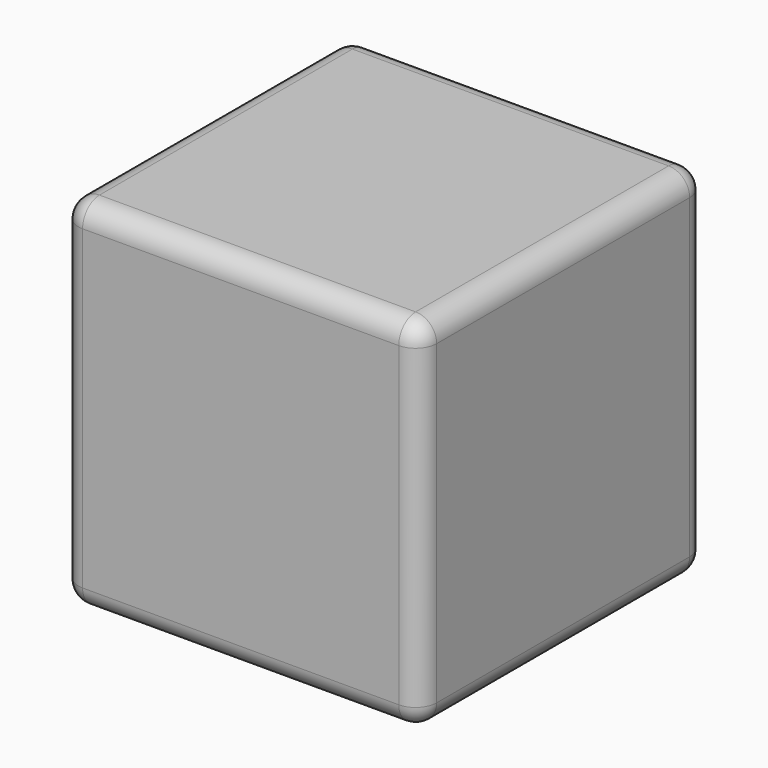
from build123d import *

# Parameters (mm, degrees)
F0_W     = 43.18
F0_H     = 43.18
F1_DEPTH = 86.36
F2_R     = 5.08


with BuildPart() as f1:
    # F0 (on Top) → F1 (new body)
    with BuildSketch(Plane.XY):
        with Locations((-21.59, 21.59)):
            Rectangle(F0_W, F0_H)
        with Locations((21.59, -21.59)):
            Rectangle(F0_W, F0_H)
        with Locations((21.59, 21.59)):
            Rectangle(F0_W, F0_H)
        with Locations((-21.59, -21.59)):
            Rectangle(F0_W, F0_H)
    extrude(amount=F1_DEPTH)

    # F2
    f2_edges = [f1.edges().sort_by_distance(p)[0] for p in [
        (-43.18, 0, 86.36),
        (0, 43.18, 86.36),
        (-43.18, 43.18, 43.18),
        (0, -43.18, 86.36),
        (-43.18, -43.18, 43.18),
        (-43.18, 0, 0),
        (0, -43.18, 0),
        (43.18, -43.18, 43.18),
        (43.18, 0, 86.36),
        (43.18, 43.18, 43.18),
        (43.18, 0, 0),
        (0, 43.18, 0),
    ]]
    fillet(f2_edges, radius=F2_R)


solid = f1.part
